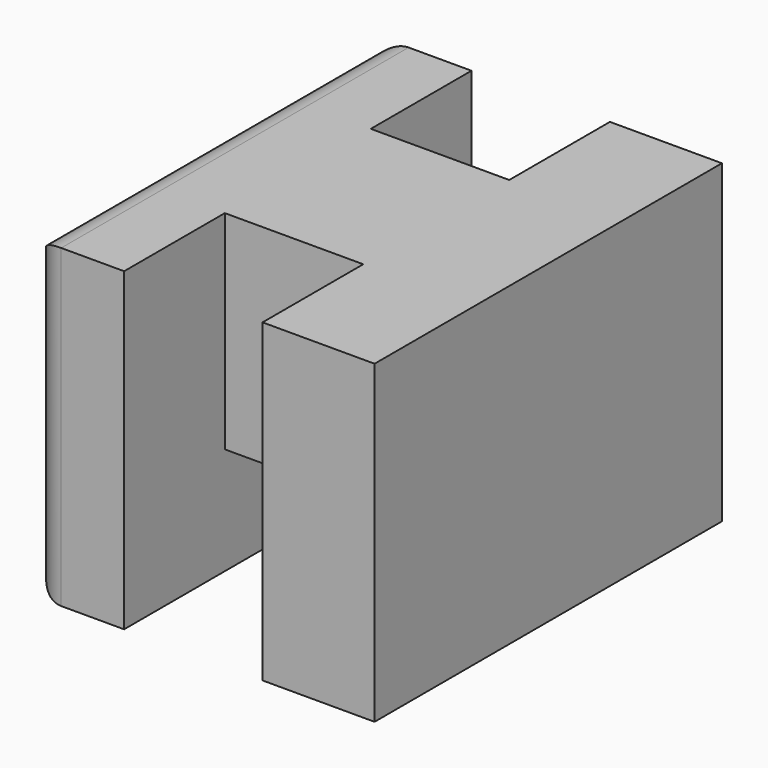
from build123d import *

# Parameters (mm, degrees)
SKETCH083_W  = 2.9
SKETCH083_H  = 3.305
PAD042_DEPTH = 2.2
SKETCH084_W  = 6.9
SKETCH084_H  = 5.01
PAD043_DEPTH = 1.78
SKETCH085_W  = 6.9
SKETCH085_H  = 5.01
PAD044_DEPTH = 1.5
FILLET006_R  = 0.5


with BuildPart() as part:
    # Sketch083 → Pad042 (new body)
    with BuildSketch(Plane.YZ):
        with Locations((-7.77, 12.9475)):
            Rectangle(SKETCH083_W, SKETCH083_H)
    extrude(amount=PAD042_DEPTH)

    # Sketch084 (on Face6 of Pad042) → Pad043 (join)
    with BuildSketch(Plane.YZ.offset(2.2)):
        with Locations((-7.77, 12.095)):
            Rectangle(SKETCH084_W, SKETCH084_H)
    extrude(amount=PAD043_DEPTH)

    # Sketch085 (on Face2 of Pad043) → Pad044 (join)
    with BuildSketch(Plane(origin=(0, 0, 0), x_dir=(0, 1, 0), z_dir=(-1, 0, 0))):
        with Locations((-7.77, -12.095)):
            Rectangle(SKETCH085_W, SKETCH085_H)
    extrude(amount=PAD044_DEPTH)

    # Fillet006
    fillet006_edges = [part.edges().sort_by_distance(p)[0] for p in [
        (-1.5, -11.22, 12.095),
        (-1.5, -7.77, 14.6),
        (-1.5, -4.32, 12.095),
        (-1.5, -7.77, 9.59),
    ]]
    fillet(fillet006_edges, radius=FILLET006_R)


with BuildPart() as part_1:
    # Body012 placement: moved
    add(part.part.moved(Location((-29.6, 0, 0))))


solid = part_1.part
